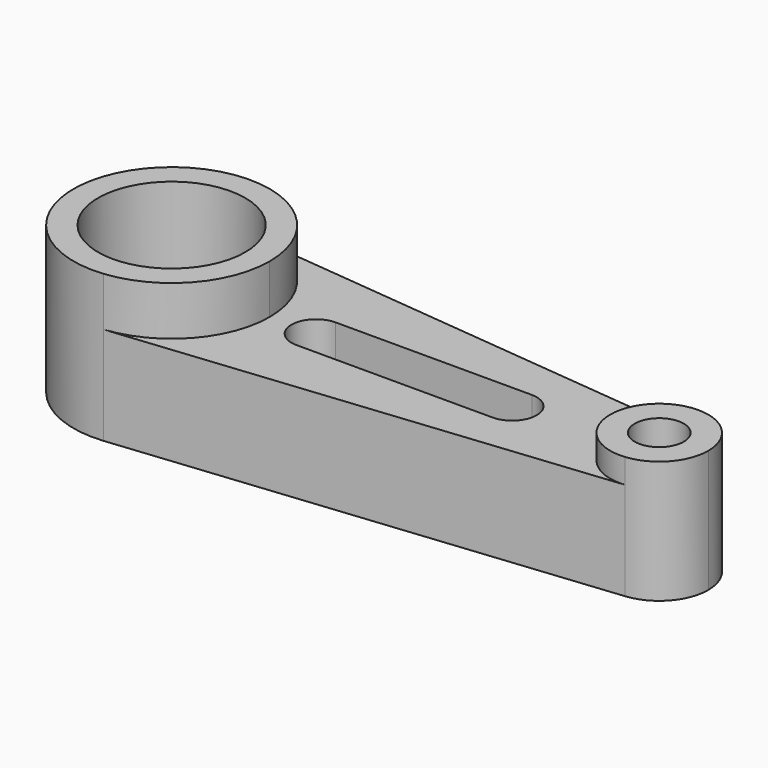
from build123d import *

# Parameters (mm, degrees)
F0_R     = 19.05
F1_DEPTH = 38.1
F2_DEPTH = 25.4
F3_DEPTH = 31.75


with BuildPart() as f1:
    # F0 (on Top) → F1 (new body)
    with BuildSketch(Plane.XY):
        with BuildLine():
            ThreePointArc((2.581912, -25.268433), (18.851268, -17.023211), (25.4, 0))
            ThreePointArc((25.4, 0), (18.833823, 17.042509), (2.530148, 25.273669))
            ThreePointArc((2.530148, 25.273669), (-25.399987, -0.026014), (2.581912, -25.268433))
        make_face()
        Circle(F0_R, mode=Mode.SUBTRACT)
    extrude(amount=F1_DEPTH)

    # F0 (on Top) → F2 (join)
    with BuildSketch(Plane.XY):
        with BuildLine():
            ThreePointArc((2.530148, 25.273669), (18.833823, 17.042509), (25.4, 0))
            ThreePointArc((25.4, 0), (18.851268, -17.023211), (2.581912, -25.268433))
            Line((2.581912, -25.268433), (127.494344, -12.504961))
            ThreePointArc((127.494344, -12.504961), (117.691782, -9.296378), (113.503388, 0.129256))
            ThreePointArc((113.503388, 0.129256), (117.682133, 9.546167), (127.468462, 12.76609))
            Line((127.468462, 12.76609), (2.530148, 25.273669))
        make_face()
        with BuildLine():
            ThreePointArc((37.3036, -6.220744), (30.953388, 0.12915), (37.303388, 6.479256))
            Line((37.303388, 6.479256), (88.103176, 6.480948))
            ThreePointArc((88.103176, 6.480948), (94.453176, 0.131054), (88.103388, -6.219052))
            Line((88.103388, -6.219052), (37.3036, -6.220744))
        make_face(mode=Mode.SUBTRACT)
    extrude(amount=F2_DEPTH)

    # F0 (on Top) → F3 (join)
    with BuildSketch(Plane.XY):
        with BuildLine():
            ThreePointArc((138.903388, 0.129256), (135.620299, 8.65051), (127.468462, 12.76609))
            ThreePointArc((127.468462, 12.76609), (117.682133, 9.546167), (113.503388, 0.129256))
            ThreePointArc((113.503388, 0.129256), (117.691782, -9.296378), (127.494344, -12.504961))
            ThreePointArc((127.494344, -12.504961), (135.629022, -8.38235), (138.903388, 0.129256))
        make_face()
        with BuildLine():
            ThreePointArc((132.553388, 0.129256), (126.203388, -6.220744), (119.853388, 0.129256))
            ThreePointArc((119.853388, 0.129256), (126.203388, 6.479256), (132.553388, 0.129256))
        make_face(mode=Mode.SUBTRACT)
    extrude(amount=F3_DEPTH)


solid = f1.part
